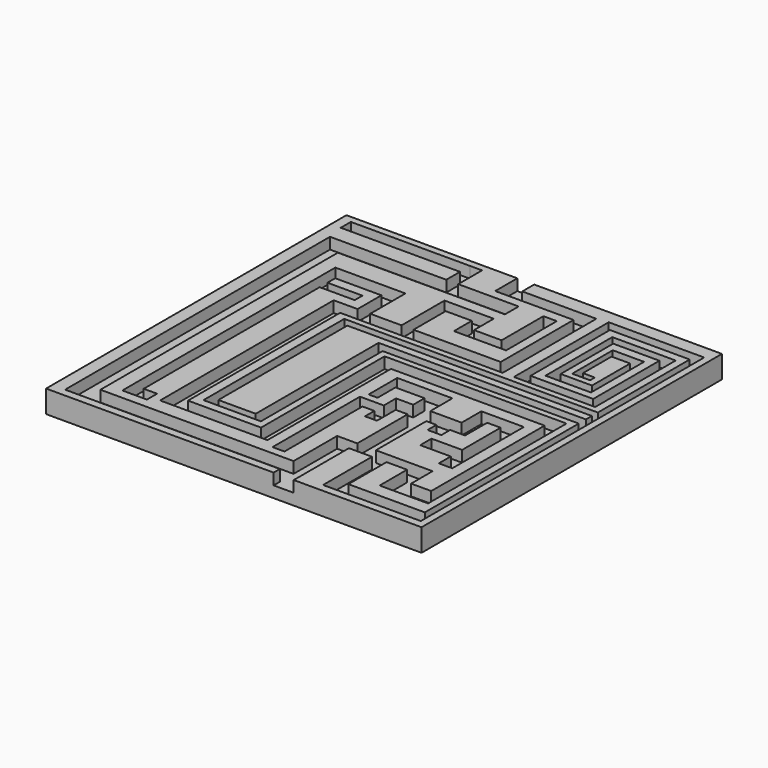
from build123d import *

# Parameters (mm, degrees)
F0_W     = 100
F0_H     = 100
F1_DEPTH = 6
F2_W     = 31.778058
F2_H     = 3.376421
F3_DEPTH = 3


with BuildPart() as f1:
    # F0 (on Top) → F1 (new body)
    with BuildSketch(Plane.XY):
        with Locations((1.715221, 12.071789)):
            Rectangle(F0_W, F0_H)
    extrude(amount=F1_DEPTH)

    # F2 (on face) → F3 (cut)
    with BuildSketch(Plane.XY.offset(6)):
        Polygon((12.313999, -35.849623), (12.313999, -37.928211), (17.676545, -37.928211), (17.676545, -19.563368), (23.833545, -19.563368), (23.833545, -35.849623), (27.706495, -35.849623), (49.851827, -35.849623), (49.851827, -32.274589), (49.851827, 58.491487), (48.064318, 58.491487), (24.429381, 58.491487), (24.429381, 55.909526), (24.429381, 26.912043), (26.812738, 26.912043), (46.078186, 26.912043), (46.078186, 29.494012), (46.078186, 53.724784), (43.496218, 53.724784), (29.196093, 53.724784), (29.196093, 51.540039), (29.196093, 31.480141), (31.182222, 31.480141), (41.311476, 31.480141), (41.311476, 34.062106), (41.311476, 49.156684), (39.523959, 49.156684), (32.969736, 49.156684), (32.969736, 46.773333), (32.969736, 35.65101), (34.558639, 35.65101), (37.736446, 35.65101), (37.736446, 37.239913), (34.558639, 37.239913), (34.558639, 46.773333), (39.523959, 46.773333), (39.523959, 34.062106), (31.182222, 34.062106), (31.182222, 51.540039), (43.496218, 51.540039), (43.496218, 29.494012), (26.812738, 29.494012), (26.812738, 55.909526), (48.064318, 55.909526), (48.064318, 25.323141), (-17.080707, 25.323141), (-19.464061, 25.323141), (-19.464061, -19.563368), (-19.464061, -21.549497), (-7.150063, -21.549497), (-4.17087, -21.549497), (-4.17087, 18.967528), (48.064318, 18.967528), (48.064318, -32.274589), (27.706495, -32.274589), (27.706495, -19.563368), (33.168349, -19.563368), (33.168349, -28.699558), (37.736446, -28.699558), (43.098994, -28.699558), (46.078186, -28.699558), (46.078186, 17.378626), (43.098994, 17.378626), (2.184742, 17.378626), (-2.383354, 17.378626), (-2.383354, -23.734238), (-21.847416, -23.734238), (-21.847416, 26.912043), (18.073771, 26.912043), (21.450188, 26.912043), (21.450188, 58.094267), (18.073771, 58.094267), (1.715221, 58.094267), (1.715221, 62.071789), (-2.780579, 62.071789), (-2.780579, 58.094267), (-2.780579, 54.717846), (18.073771, 54.717846), (18.073771, 30.487075), (-5.163935, 30.487075), (-5.163935, 41.212171), (1.787515, 41.212171), (1.787515, 35.253786), (4.766708, 35.253786), (15.690416, 35.253786), (15.690416, 38.232978), (15.690416, 52.135877), (12.115386, 52.135877), (12.115386, 38.232978), (4.766708, 38.232978), (4.766708, 41.212171), (4.766708, 44.787202), (-5.163935, 44.787202), (-8.34174, 44.787202), (-8.34174, 30.487075), (-16.683482, 30.487075), (-16.683482, 42.205233), (-20.0599, 42.205233), (-35.353091, 42.205233), (-35.353091, 38.431592), (-35.353091, -28.699558), (-32.373898, -28.699558), (-28.798867, -28.699558), (-28.798867, -25.323141), (-32.373898, -25.323141), (-32.373898, 33.267654), (-23.039093, 33.267654), (-23.039093, 35.849623), (-32.373898, 35.849623), (-32.373898, 38.431592), (-20.0599, 38.431592), (-20.0599, 30.487075), (-21.847416, 30.487075), (-26.415512, 30.487075), (-26.415512, -23.734238), (-26.415512, -27.309269), (-2.383354, -27.309269), (2.184742, -27.309269), (2.184742, 13.803595), (43.098994, 13.803595), (43.098994, -23.932852), (37.736446, -23.932852), (37.736446, -19.563368), (37.736446, -16.782787), (22.641867, -16.782787), (17.676545, -16.782787), (12.313999, -16.782787), (12.313999, -31.281527), (-39.126735, -31.281527), (-39.126735, 47.766395), (5.362547, 47.766395), (5.362547, 52.334495), (-10.725095, 52.334495), (-13.902901, 52.334495), (-39.126735, 52.334495), (-44.886511, 52.334495), (-44.886511, -31.281527), (-44.886511, -35.849623), align=None)
        Polygon((48.064318, 23.337012), (48.064318, 21.350883), (-4.17087, 21.350883), (-7.150063, 21.350883), (-7.150063, -19.563368), (-17.080707, -19.563368), (-17.080707, 23.337012), align=None, mode=Mode.SUBTRACT)
        Polygon((-13.902901, 56.902587), (-13.902901, 52.334495), (-10.725095, 52.334495), (-10.725095, 60.279008), (-13.902901, 60.279008), align=None)
        with Locations((-29.79193, 58.590797)):
            Rectangle(F2_W, F2_H)
        Polygon((17.676545, 0), (17.676545, -16.782787), (22.641867, -16.782787), (22.641867, 0), (25.32314, 0), (25.32314, -2.92954), (28.997479, -2.92954), (28.997479, 0), (32.969736, 0), (32.969736, 4.071564), (32.969736, 7.348676), (36.544766, 7.348676), (36.544766, -5.461854), (28.401639, -5.461854), (28.401639, -9.235498), (36.544766, -9.235498), (36.544766, -13.207756), (40.119801, -13.207756), (40.119801, 7.348676), (40.119801, 10.625788), (32.969736, 10.625788), (28.798867, 10.625788), (28.798867, 4.071564), (20.457124, 4.071564), (20.457124, 11.420241), (15.88903, 11.420241), (5.759772, 11.420241), (5.759772, 7.845208), (5.759772, 1.886822), (8.143128, 1.886822), (8.143128, 7.845208), (15.88903, 7.845208), (15.88903, 4.071564), (11.320934, 4.071564), (11.320934, 0), (4.965322, 0), (4.965322, -3.128153), (4.965322, -29.096784), (8.143129, -29.096784), (8.143129, -3.128153), (11.320934, -3.128153), (11.320934, -6.256306), (14.49874, -6.256306), (14.49874, 0), align=None)
    extrude(amount=-F3_DEPTH, mode=Mode.SUBTRACT)


solid = f1.part
